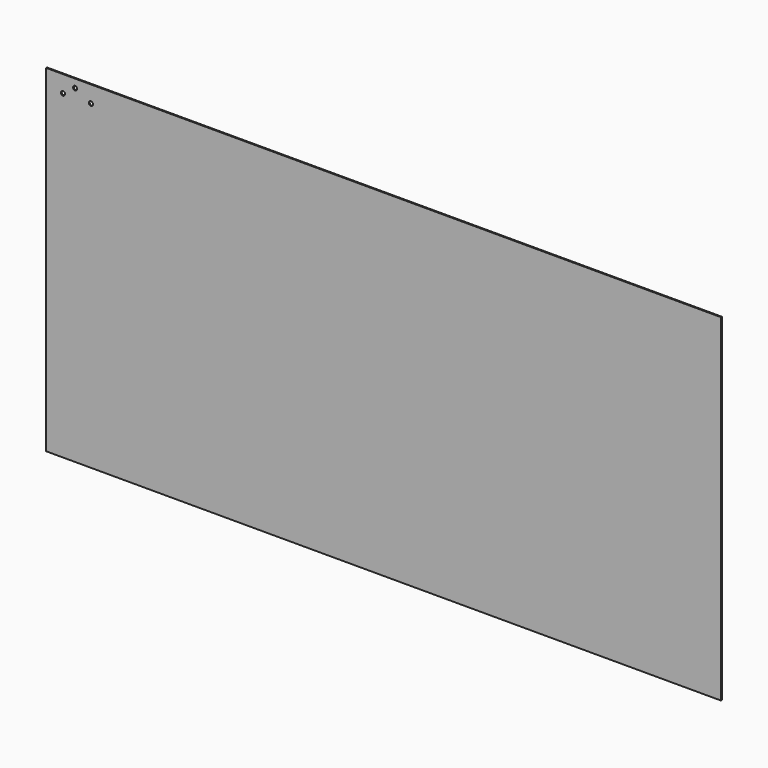
from build123d import *

# Parameters (mm, degrees)
F0_W     = 1016
F0_H     = 508
F0_R     = 3.175
F1_DEPTH = 1.5875


with BuildPart() as f1:
    # F0 (on Front) → F1 (new body)
    with BuildSketch(Plane.XZ):
        Rectangle(F0_W, F0_H)
        with Locations((-482.6, 228.6)):
            Circle(F0_R, mode=Mode.SUBTRACT)
        with Locations((-464.361014, 241.3)):
            Circle(F0_R, mode=Mode.SUBTRACT)
        with Locations((-440.548514, 228.6)):
            Circle(F0_R, mode=Mode.SUBTRACT)
    extrude(amount=F1_DEPTH)


solid = f1.part
